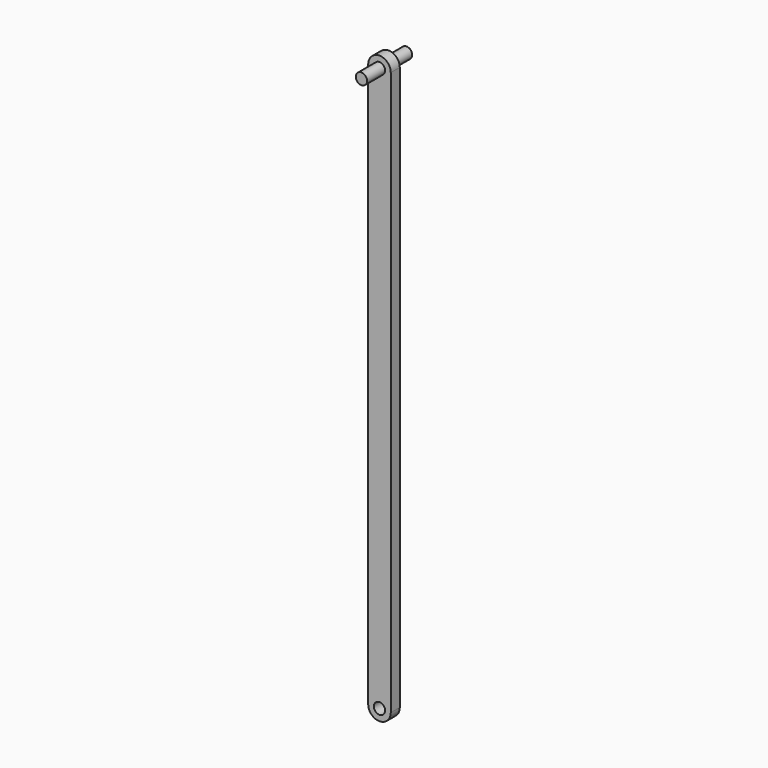
from build123d import *

# Parameters (mm, degrees)
F0_R     = 1
F1_DEPTH = 1
F2_DEPTH = 5


with BuildPart() as f1:
    # F0 (on Front) → F1 (new body, symmetric)
    with BuildSketch(Plane.XZ):
        with BuildLine():
            ThreePointArc((-2, 0), (0, -2), (2, 0))
            ThreePointArc((2, 0), (0, 2), (-2, 0))
        make_face()
        Circle(F0_R, mode=Mode.SUBTRACT)
        with BuildLine():
            Line((2, -100), (2, 0))
            ThreePointArc((2, 0), (0, -2), (-2, 0))
            Line((-2, 0), (-2, -100))
            ThreePointArc((-2, -100), (0, -98), (2, -100))
        make_face()
        with BuildLine():
            ThreePointArc((-2, -100), (0, -102), (2, -100))
            ThreePointArc((2, -100), (0, -98), (-2, -100))
        make_face()
        with Locations((0, -100)):
            Circle(F0_R, mode=Mode.SUBTRACT)
    extrude(amount=F1_DEPTH, both=True)

    # F0 (on Front) → F2 (join, symmetric)
    with BuildSketch(Plane.XZ):
        Circle(F0_R)
    extrude(amount=F2_DEPTH, both=True)


solid = f1.part
